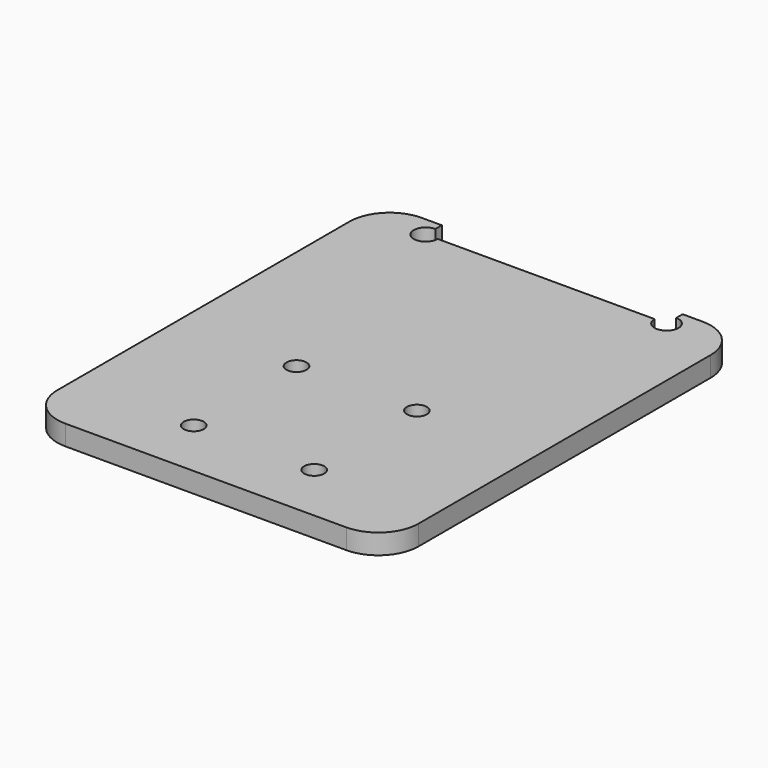
from build123d import *

# Parameters (mm, degrees)
F0_R     = 2.5
F1_DEPTH = 5


with BuildPart() as f1:
    # F0 (on Top) → F1 (new body)
    with BuildSketch(Plane.XY):
        with BuildLine():
            Line((-35, -57.5), (35, -57.5))
            ThreePointArc((35, -57.5), (42.071068, -54.571068), (45, -47.5))
            Line((45, -47.5), (45, 43.5))
            ThreePointArc((45, 43.5), (42.071068, 50.571068), (35, 53.5))
            Line((35, 53.5), (30, 53.5))
            Line((30, 53.5), (30, 51.5))
            ThreePointArc((30, 51.5), (32.12132, 46.37868), (27, 48.5))
            Line((27, 48.5), (-27, 48.5))
            ThreePointArc((-27, 48.5), (-32.12132, 46.37868), (-30, 51.5))
            Line((-30, 51.5), (-30, 53.5))
            Line((-30, 53.5), (-35, 53.5))
            ThreePointArc((-35, 53.5), (-42.071068, 50.571068), (-45, 43.5))
            Line((-45, 43.5), (-45, -47.5))
            ThreePointArc((-45, -47.5), (-42.071068, -54.571068), (-35, -57.5))
        make_face()
        with Locations((-15, -42.5)):
            Circle(F0_R, mode=Mode.SUBTRACT)
        with Locations((-15, -10.5)):
            Circle(F0_R, mode=Mode.SUBTRACT)
        with Locations((15, -42.5)):
            Circle(F0_R, mode=Mode.SUBTRACT)
        with Locations((15, -10.5)):
            Circle(F0_R, mode=Mode.SUBTRACT)
    extrude(amount=F1_DEPTH)


solid = f1.part
